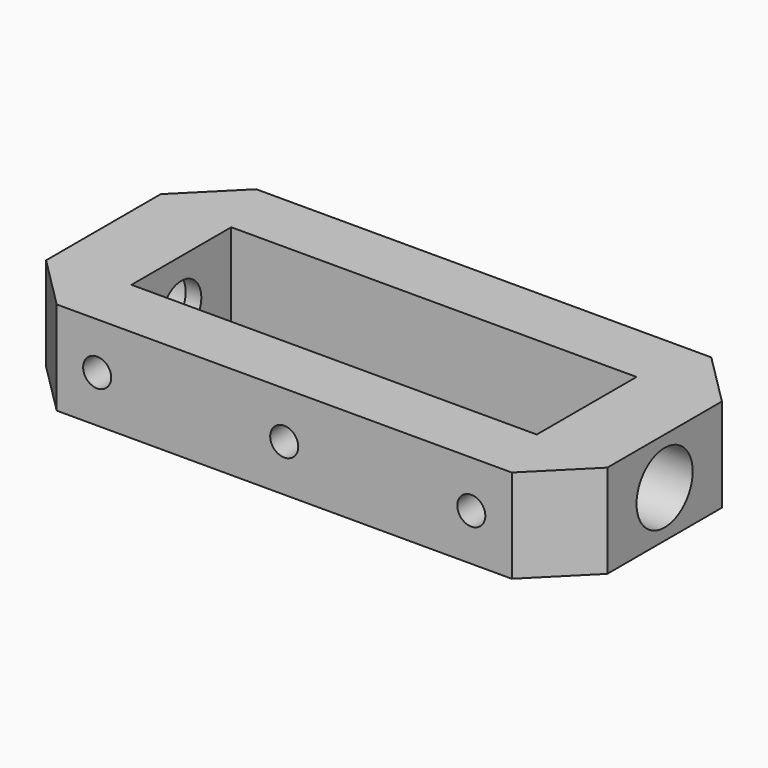
from build123d import *

# Parameters (mm, degrees)
SKETCH002_W     = 82.55
SKETCH002_H     = 25.4
PAD001_DEPTH    = 19.05
SKETCH003_R     = 5.08
POCKET001_DEPTH = 114.301
SKETCH100_R     = 2.286
POCKET027_DEPTH = 6.223
SKETCH101_R     = 7.14375
POCKET028_DEPTH = 12.7
SKETCH118_R     = 2.8575
POCKET042_DEPTH = 6.096


with BuildPart() as part:
    # Sketch002 → Pad001 (new body)
    with BuildSketch(Plane.XY):
        Polygon((-57.15, 14.589816), (-57.15, -14.589816), (-46.339816, -25.4), (46.339816, -25.4), (57.15, -14.589816), (57.15, 14.589816), (46.339816, 25.4), (-46.339816, 25.4), align=None)
        Rectangle(SKETCH002_W, SKETCH002_H, mode=Mode.SUBTRACT)
    extrude(amount=PAD001_DEPTH)

    # Sketch003 (on Face1 of Pad001) → Pocket001 (cut, through all)
    with BuildSketch(Plane(origin=(-57.15, 0, 0), x_dir=(0, -1, 0), z_dir=(-1, 0, 0))):
        with Locations((0, 9.525)):
            Circle(SKETCH003_R)
    extrude(amount=-POCKET001_DEPTH, mode=Mode.SUBTRACT)

    # Sketch100 (on Face1 of Pocket001) → Pocket027 (cut)
    with BuildSketch(Plane(origin=(-57.15, 0, 0), x_dir=(0, -1, 0), z_dir=(-1, 0, 0))):
        with Locations((10.16, 9.525)):
            Circle(SKETCH100_R)
        with Locations((-10.16, 9.525)):
            Circle(SKETCH100_R)
    extrude(amount=-POCKET027_DEPTH, mode=Mode.SUBTRACT)

    # Sketch101 (on Face1 of Pocket027) → Pocket028 (cut)
    with BuildSketch(Plane(origin=(-57.15, 0, 0), x_dir=(0, -1, 0), z_dir=(-1, 0, 0))):
        with Locations((0, 9.525)):
            Circle(SKETCH101_R)
    pocket028 = extrude(amount=-POCKET028_DEPTH, mode=Mode.SUBTRACT)

    # Mirrored002: Pocket028 across YZ
    add(pocket028.mirror(Plane.YZ), mode=Mode.SUBTRACT)

    # Sketch118 (on Face10 of Mirrored002) → Pocket042 (cut)
    with BuildSketch(Plane.XZ.offset(25.4)):
        with Locations((0, 9.525)):
            Circle(SKETCH118_R)
        with Locations((38.1, 9.525)):
            Circle(SKETCH118_R)
        with Locations((-38.1, 9.525)):
            Circle(SKETCH118_R)
    pocket042 = extrude(amount=-POCKET042_DEPTH, mode=Mode.SUBTRACT)

    # Mirrored004: Pocket042 across XZ
    add(pocket042.mirror(Plane.XZ), mode=Mode.SUBTRACT)


with BuildPart() as part_1:
    # Body001 placement: moved
    add(part.part.moved(Location((-58.293, -69.469, -9.4742))))


solid = part_1.part
